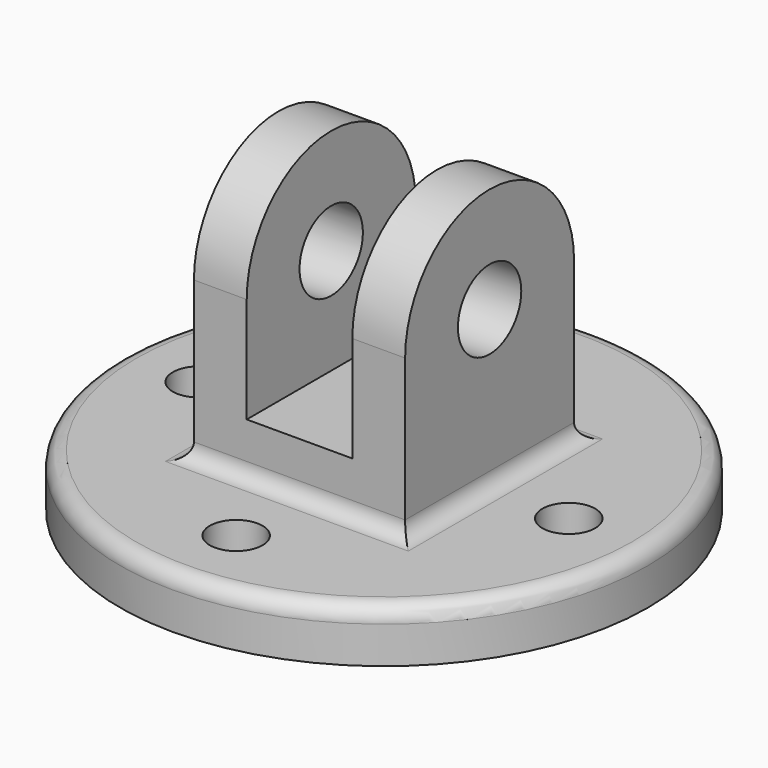
from build123d import *

# Parameters (mm, degrees)
F0_R      = 63.5
F0_R_2    = 6.35
F1_DEPTH  = 12.7
F2_W      = 50.8
F2_H      = 50.8
F3_DEPTH  = 12.7
F4_W      = 12.7
F4_H      = 50.8
F5_DEPTH  = 25.4
F7_DEPTH  = 12.7
F10_DEPTH = 12.7
F8_R      = 9.525
F11_DEPTH = 88.901
F12_R     = 3.81


with BuildPart() as f1:
    # F0 (on Top) → F1 (new body)
    with BuildSketch(Plane.XY):
        Circle(F0_R)
        with Locations((0, -44.45)):
            Circle(F0_R_2, mode=Mode.SUBTRACT)
        with Locations((-44.45, 0)):
            Circle(F0_R_2, mode=Mode.SUBTRACT)
        with Locations((44.45, 0)):
            Circle(F0_R_2, mode=Mode.SUBTRACT)
        with Locations((0, 44.45)):
            Circle(F0_R_2, mode=Mode.SUBTRACT)
    extrude(amount=F1_DEPTH)

    # F2 (on face) → F3 (join)
    with BuildSketch(Plane.XY.offset(12.7)):
        Rectangle(F2_W, F2_H)
    extrude(amount=F3_DEPTH)

    # F4 (on face) → F5 (join)
    with BuildSketch(Plane.XY.offset(25.4)):
        with Locations((-19.05, 0)):
            Rectangle(F4_W, F4_H)
        with Locations((19.05, 0)):
            Rectangle(F4_W, F4_H)
    extrude(amount=F5_DEPTH)

    # F6 (on face) → F7 (join)
    with BuildSketch(Plane(origin=(-25.4, 0, 0), x_dir=(0, -1, 0), z_dir=(-1, 0, 0))):
        with BuildLine():
            Line((-25.4, 50.8), (25.4, 50.8))
            ThreePointArc((25.4, 50.8), (0, 76.2), (-25.4, 50.8))
        make_face()
    extrude(amount=-F7_DEPTH)

    # F9 (on face) → F10 (join)
    with BuildSketch(Plane(origin=(12.7, 0, 0), x_dir=(0, -1, 0), z_dir=(-1, 0, 0))):
        with BuildLine():
            Line((-25.4, 50.8), (25.4, 50.8))
            ThreePointArc((25.4, 50.8), (0, 76.2), (-25.4, 50.8))
        make_face()
    extrude(amount=-F10_DEPTH)

    # F8 (on face) → F11 (cut, through all)
    with BuildSketch(Plane.YZ.offset(25.4)):
        with Locations((0, 50.8)):
            Circle(F8_R)
    extrude(amount=-F11_DEPTH, mode=Mode.SUBTRACT)

    # F12
    f12_edges = [f1.edges().sort_by_distance(p)[0] for p in [
        (-63.5, 0, 12.7),
        (-25.4, 0, 12.7),
        (0, 25.4, 12.7),
        (25.4, 0, 12.7),
        (0, -25.4, 12.7),
    ]]
    fillet(f12_edges, radius=F12_R)


solid = f1.part
